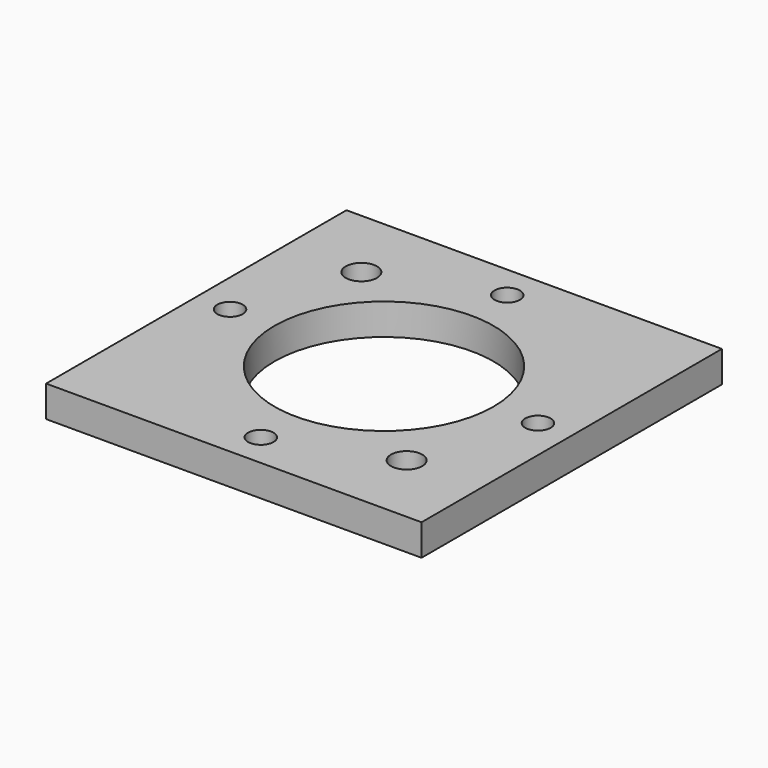
from build123d import *

# Parameters (mm, degrees)
F0_W     = 152.4
F0_H     = 152.4
F0_R     = 5.159375
F0_R_2   = 6.35
F0_R_3   = 44.45
F1_DEPTH = 12.7


with BuildPart() as f1:
    # F0 (on Top) → F1 (new body)
    with BuildSketch(Plane.XY):
        Rectangle(F0_W, F0_H)
        with Locations((0, -62.4967)):
            Circle(F0_R, mode=Mode.SUBTRACT)
        with Locations((45.960951, -45.960951)):
            Circle(F0_R_2, mode=Mode.SUBTRACT)
        with Locations((-62.4967, 0)):
            Circle(F0_R, mode=Mode.SUBTRACT)
        with Locations((-45.960951, 45.960951)):
            Circle(F0_R_2, mode=Mode.SUBTRACT)
        Circle(F0_R_3, mode=Mode.SUBTRACT)
        with Locations((62.4967, 0)):
            Circle(F0_R, mode=Mode.SUBTRACT)
        with Locations((0, 62.4967)):
            Circle(F0_R, mode=Mode.SUBTRACT)
    extrude(amount=F1_DEPTH)


solid = f1.part
